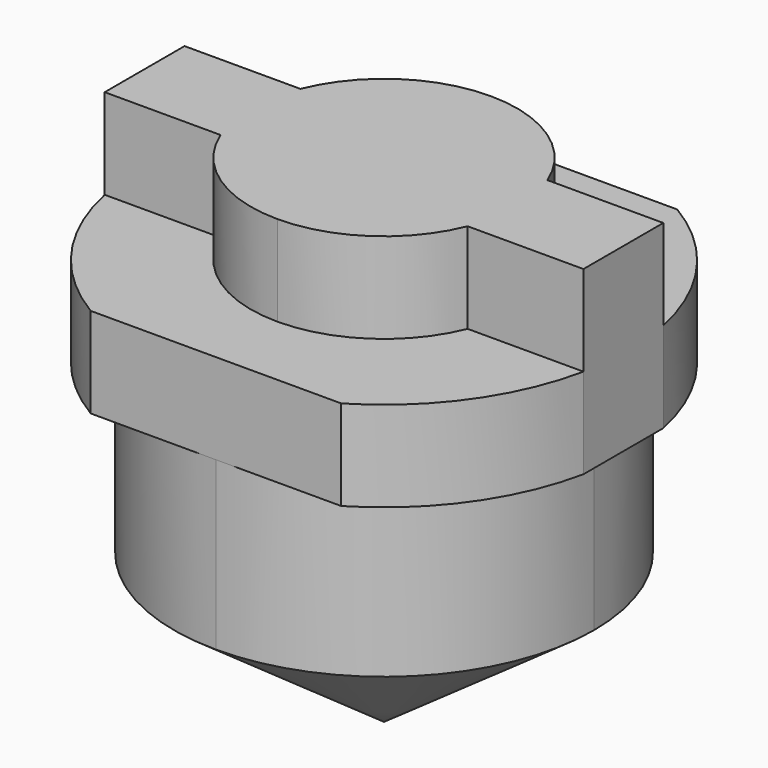
from build123d import *

# Parameters (mm, degrees)
F1_DEPTH  = 2
F3_DEPTH  = 2
F5_DEPTH  = 3.7
F5_FACE_R = 4.65


with BuildPart() as f1:
    # F0 (on Top) → F1 (new body)
    with BuildSketch(Plane.XY):
        with BuildLine():
            Line((-4.516799, 1.105), (-5.3, 1.105))
            Line((-5.3, 1.105), (-5.3, -1.105))
            Line((-5.3, -1.105), (-4.516799, -1.105))
            ThreePointArc((-4.516799, -1.105), (-4.65, 0), (-4.516799, 1.105))
        make_face()
        with BuildLine():
            ThreePointArc((0, 2.95), (-1.649659, 2.445634), (-2.735229, 1.105))
            ThreePointArc((-2.735229, 1.105), (-2.895809, 0.562839), (-2.95, 0))
            ThreePointArc((-2.95, 0), (-2.895809, -0.562839), (-2.735229, -1.105))
            ThreePointArc((-2.735229, -1.105), (-1.649659, -2.445634), (0, -2.95))
            ThreePointArc((0, -2.95), (1.649659, -2.445634), (2.735229, -1.105))
            ThreePointArc((2.735229, -1.105), (2.895809, -0.562839), (2.95, 0))
            ThreePointArc((2.95, 0), (2.895809, 0.562839), (2.735229, 1.105))
            ThreePointArc((2.735229, 1.105), (1.649659, 2.445634), (0, 2.95))
        make_face()
        with BuildLine():
            Line((5.3, 1.105), (4.516799, 1.105))
            ThreePointArc((4.516799, 1.105), (4.61658, 0.5565), (4.65, 0))
            ThreePointArc((4.65, 0), (4.61658, -0.5565), (4.516799, -1.105))
            Line((4.516799, -1.105), (5.3, -1.105))
            Line((5.3, -1.105), (5.3, 1.105))
        make_face()
        with BuildLine():
            Line((-2.735229, 1.105), (-4.516799, 1.105))
            ThreePointArc((-4.516799, 1.105), (-4.65, 0), (-4.516799, -1.105))
            Line((-4.516799, -1.105), (-2.735229, -1.105))
            ThreePointArc((-2.735229, -1.105), (-2.895809, -0.562839), (-2.95, 0))
            ThreePointArc((-2.95, 0), (-2.895809, 0.562839), (-2.735229, 1.105))
        make_face()
        with BuildLine():
            ThreePointArc((4.65, 0), (4.61658, 0.5565), (4.516799, 1.105))
            Line((4.516799, 1.105), (2.735229, 1.105))
            ThreePointArc((2.735229, 1.105), (2.895809, 0.562839), (2.95, 0))
            ThreePointArc((2.95, 0), (2.895809, -0.562839), (2.735229, -1.105))
            Line((2.735229, -1.105), (4.516799, -1.105))
            ThreePointArc((4.516799, -1.105), (4.61658, -0.5565), (4.65, 0))
        make_face()
    extrude(amount=F1_DEPTH)

    # F2 (on face) → F3 (join)
    with BuildSketch(Plane(origin=(0, 0, 0), x_dir=(1, 0, 0), z_dir=(0, 0, -1))):
        with BuildLine():
            Line((-5.3, 1.105), (-5.3, -1.105))
            ThreePointArc((-5.3, -1.105), (-4.408442, -3.142717), (-2.772819, -4.65))
            Line((-2.772819, -4.65), (0, -4.65))
            Line((0, -4.65), (2.772819, -4.65))
            ThreePointArc((2.772819, -4.65), (4.408442, -3.142717), (5.3, -1.105))
            Line((5.3, -1.105), (5.3, 1.105))
            ThreePointArc((5.3, 1.105), (4.408442, 3.142717), (2.772819, 4.65))
            Line((2.772819, 4.65), (0, 4.65))
            Line((0, 4.65), (-2.772819, 4.65))
            ThreePointArc((-2.772819, 4.65), (-4.408442, 3.142717), (-5.3, 1.105))
        make_face()
    extrude(amount=F3_DEPTH)

    # F4 (on face) → F5 (join)
    with BuildSketch(Plane(origin=(0, 0, -2), x_dir=(1, 0, 0), z_dir=(0, 0, -1))):
        with BuildLine():
            ThreePointArc((0, -4.65), (3.288047, -3.288047), (4.65, 0))
            ThreePointArc((4.65, 0), (3.288047, 3.288047), (0, 4.65))
            ThreePointArc((0, 4.65), (-4.65, 0), (0, -4.65))
        make_face()
    extrude(amount=F5_DEPTH)

    # F5_face (on face) → F7 section 0
    with BuildSketch(Plane(origin=(0, 0, -5.7), x_dir=(1, 0, 0), z_dir=(0, 0, -1)), mode=Mode.PRIVATE) as f7_s0:
        Circle(F5_FACE_R)
    loft([Vertex(0, 0, -9), f7_s0.sketch])


solid = f1.part
